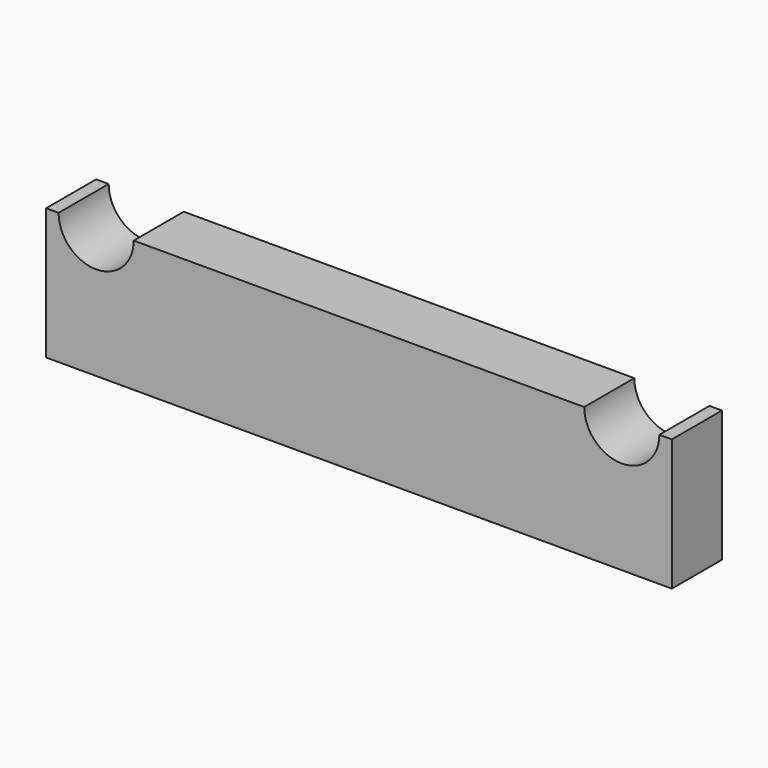
from build123d import *

# Parameters (mm, degrees)
F1_DEPTH = 50


with BuildPart() as f1:
    # F0 (on Front) → F1 (new body)
    with BuildSketch(Plane.XZ):
        with BuildLine():
            Line((-240, 52.5), (-250, 52.5))
            Line((-250, 52.5), (-250, -52.5))
            Line((-250, -52.5), (250, -52.5))
            Line((250, -52.5), (250, 52.5))
            Line((250, 52.5), (240, 52.5))
            ThreePointArc((240, 52.5), (210, 22.5), (180, 52.5))
            Line((180, 52.5), (-180, 52.5))
            ThreePointArc((-180, 52.5), (-210, 22.5), (-240, 52.5))
        make_face()
    extrude(amount=F1_DEPTH)


solid = f1.part
